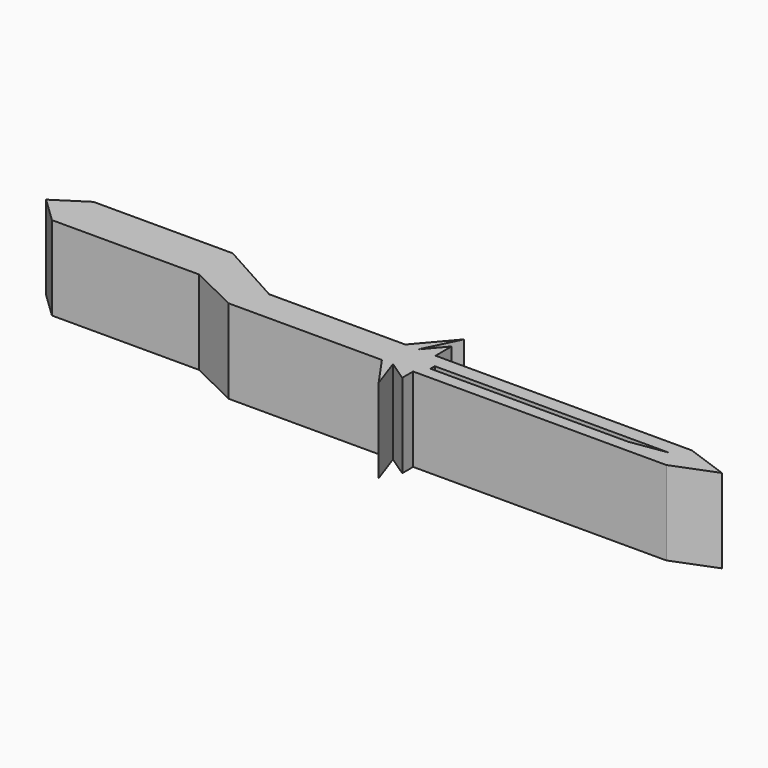
from build123d import *

# Parameters (mm, degrees)
F1_DEPTH = 25.4


with BuildPart() as f1:
    # F0 (on Top) → F1 (new body)
    with BuildSketch(Plane.XY):
        Polygon((9.144, 9.6012), (4.267201, 9.6012), (-23.164801, 9.6012), (-42.9768, 20.574002), (-85.039198, 20.574002), (-94.487995, 14.478001), (-86.868003, 7.1628), (-42.367201, 7.1628), (-27.7368, 0), (-12.192, 0), (18.592801, 0), (25.2984, -9.6012), (21.945599, 0), (28.041599, -4.1148), (28.041599, 0), (32.003999, 0), (41.148003, 0), (60.655203, 0), (85.344002, 0), (104.546405, 0), (100.888811, 5.304316), (104.546405, 9.6012), (85.344002, 9.6012), (60.655203, 9.6012), (40.843204, 9.6012), (32.308798, 9.6012), (27.127199, 9.6012), (27.127199, 15.646401), (21.945599, 9.6012), (27.127199, 20.2692), (17.983202, 9.6012), align=None)
        Polygon((90.180784, 5.304316), (100.888811, 5.304316), (90.180784, 3.65947), (30.333724, 3.65947), (30.333724, 5.304316), align=None, mode=Mode.SUBTRACT)
        Polygon((117.348, 5.0292), (104.546405, 9.6012), (100.888811, 5.304316), (104.546405, 0), align=None)
    extrude(amount=F1_DEPTH)


solid = f1.part
